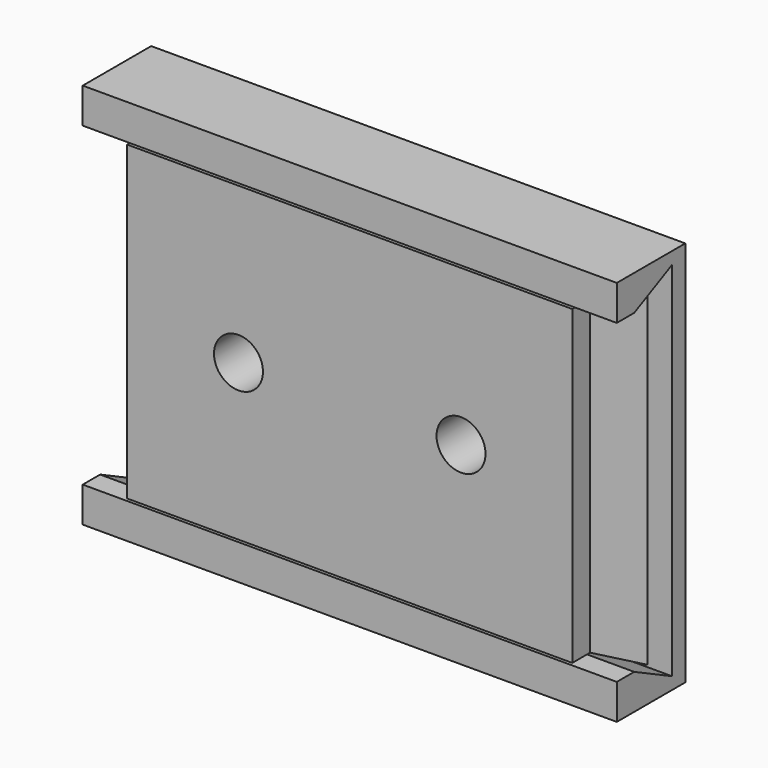
from build123d import *

# Parameters (mm, degrees)
F0_W          = 100
F0_H          = 70
F1_DEPTH      = 10
F1_TAPER      = -26
F2_DEPTH      = 5
F4_D          = 11
F6_DEPTH      = 60
F6_DEPTH_BACK = 60


with BuildPart() as f1:
    # F0 (on Front) → F1 (new body)
    with BuildSketch(Plane.XZ):
        Rectangle(F0_W, F0_H)
    extrude(amount=-F1_DEPTH, taper=F1_TAPER)

    # F2 (add): a face of the model
    f2_faces = [f1.faces().sort_by_distance(p)[0] for p in [
        (0, 0, 0),
    ]]
    extrude(f2_faces, amount=F2_DEPTH)

    # F4 (through all)
    with Locations(Plane.XZ.offset(5)):
        with Locations((-25, 0), (25, 0)):
            Hole(F4_D / 2)


with BuildPart() as f6:
    # F5 (on Right) → F6 (new body, two sides)
    with BuildSketch(Plane.YZ) as f6_sk:
        Polygon((-5, 43.4184594378), (-5, 35.5), (-0.1154340956, 35.5), (10.5, 40.6774931502), (10.5, -40.6774931502), (-0.1154340956, -35.5), (-5, -35.5), (-5, -43.4184594378), (14.2345009372, -43.4184594378), (14.2345009372, 43.4184594378), align=None)
    extrude(amount=F6_DEPTH)
    extrude(f6_sk.sketch, amount=-F6_DEPTH_BACK)


solid = Compound([f1.part, f6.part])
